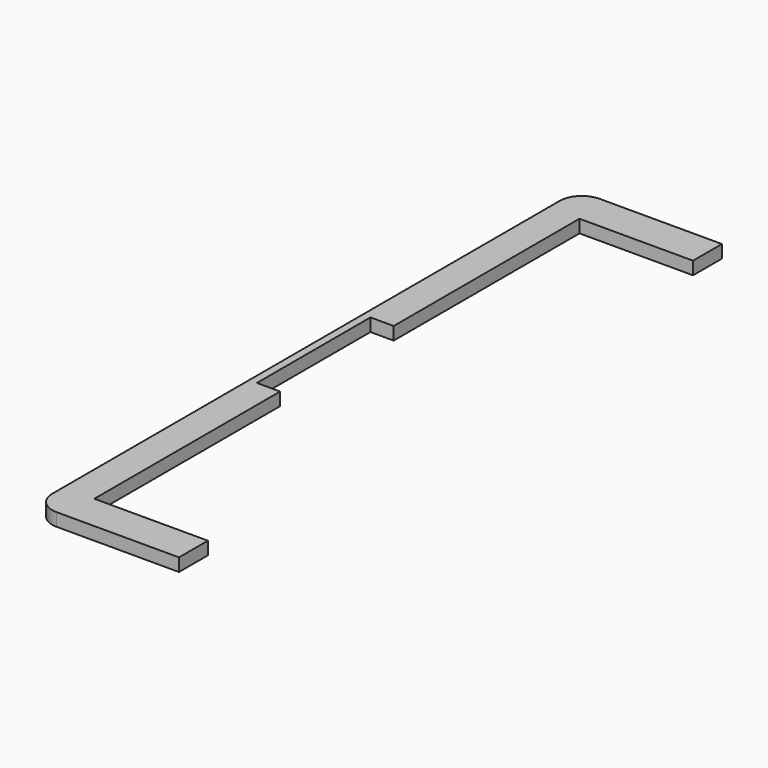
from build123d import *

# Parameters (mm, degrees)
F1_DEPTH = 2.5


with BuildPart() as f1:
    # F0 (on Top) → F1 (new body)
    with BuildSketch(Plane.XY):
        with BuildLine():
            Line((-22, 58.75), (0, 58.75))
            Line((0, 58.75), (0, 65.75))
            Line((0, 65.75), (-23.68421, 65.75))
            ThreePointArc((-23.68421, 65.75), (-26.735934, 64.485934), (-28, 61.43421))
            Line((-28, 61.43421), (-28, -61.43421))
            ThreePointArc((-28, -61.43421), (-26.735934, -64.485934), (-23.68421, -65.75))
            Line((-23.68421, -65.75), (0, -65.75))
            Line((0, -65.75), (0, -58.75))
            Line((0, -58.75), (-22, -58.75))
            Line((-22, -58.75), (-22, -13.75))
            Line((-22, -13.75), (-26.5, -13.75))
            Line((-26.5, -13.75), (-26.5, 13.75))
            Line((-26.5, 13.75), (-22, 13.75))
            Line((-22, 13.75), (-22, 58.75))
        make_face()
    extrude(amount=F1_DEPTH)


solid = f1.part
